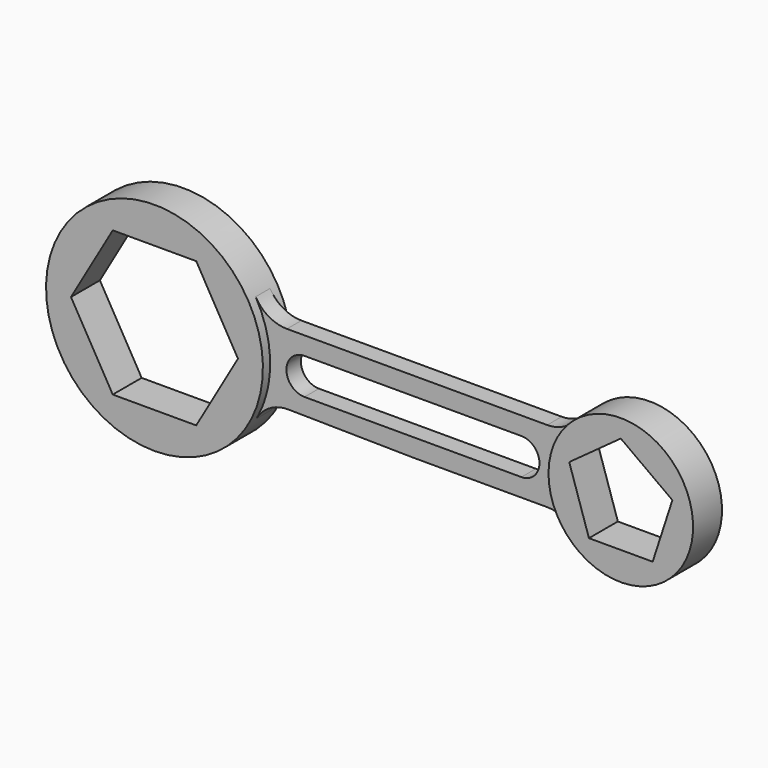
from build123d import *

# Parameters (mm, degrees)
F1_DEPTH = 127
F2_DEPTH = 63.5


with BuildPart() as f1:
    # F0 (on Front) → F1 (new body, symmetric)
    with BuildSketch(Plane.XZ):
        with BuildLine():
            ThreePointArc((665.3121861086, -371.4884857105), (737.4319920558, -191.932428455), (762, 0))
            ThreePointArc((762, 0), (736.0354796323, 197.2201123681), (659.9113576837, 381))
            ThreePointArc((659.9113576837, 381), (-761.9803741154, -5.4689544648), (665.3121861086, -371.4884857105))
        make_face()
        Polygon((-586.5878734967, 0), (-293.2939367483, 508), (293.2939367483, 508), (586.5878734967, 0), (293.2939367483, -508), (-293.2939367483, -508), align=None, mode=Mode.SUBTRACT)
    extrude(amount=F1_DEPTH, both=True)


with BuildPart() as f1b:
    # F0 (on Front) → F1, piece 2 (new body, symmetric)
    with BuildSketch(Plane.XZ):
        with BuildLine():
            ThreePointArc((3784.6, 0), (3457.8656216047, 474.5595583531), (2897.95915581, 338.6666666667))
            ThreePointArc((2897.95915581, 338.6666666667), (2768.6, 0), (2897.95915581, -338.6666666667))
            ThreePointArc((2897.95915581, -338.6666666667), (3457.8656216047, -474.5595583531), (3784.6, 0))
        make_face()
        Polygon((3638.9525327085, 117.7354748569), (3500.5461811234, -308.2354748569), (3052.6538188766, -308.2354748569), (2914.2474672915, 117.7354748569), (3276.6, 381), align=None, mode=Mode.SUBTRACT)
    extrude(amount=F1_DEPTH, both=True)


with BuildPart() as f2:
    # F0 (on Front) → F2 (new body, symmetric)
    with BuildSketch(Plane.XZ):
        with BuildLine():
            ThreePointArc((659.9113576837, 381), (736.0354796323, 197.2201123681), (762, 0))
            ThreePointArc((762, 0), (737.4319920558, -191.932428455), (665.3121861086, -371.4884857105))
            ThreePointArc((665.3121861086, -371.4884857105), (760.0956270376, -275.3401894686), (890.7581446402, -241.3445715405))
            Line((890.7581446402, -241.3445715405), (1765.3, -254))
            Line((1765.3, -254), (2708.6387337151, -254))
            ThreePointArc((2708.6387337151, -254), (2812.3337994929, -276.1307839895), (2897.95915581, -338.6666666667))
            ThreePointArc((2897.95915581, -338.6666666667), (2768.6, 0), (2897.95915581, 338.6666666667))
            ThreePointArc((2897.95915581, 338.6666666667), (2812.3337994929, 276.1307839895), (2708.6387337151, 254))
            Line((2708.6387337151, 254), (1765.3, 254))
            Line((1765.3, 254), (879.881810245, 254))
            ThreePointArc((879.881810245, 254), (752.881810245, 288.0295474388), (659.9113576837, 381))
        make_face()
        with BuildLine():
            Line((1003.3, 127), (1765.3, 127))
            Line((1765.3, 127), (2527.3, 127))
            ThreePointArc((2527.3, 127), (2654.3, 0), (2527.3, -127))
            Line((2527.3, -127), (1003.3, -127))
            ThreePointArc((1003.3, -127), (876.3, 0), (1003.3, 127))
        make_face(mode=Mode.SUBTRACT)
    extrude(amount=F2_DEPTH, both=True)


solid = Compound([f1.part, f1b.part, f2.part])
